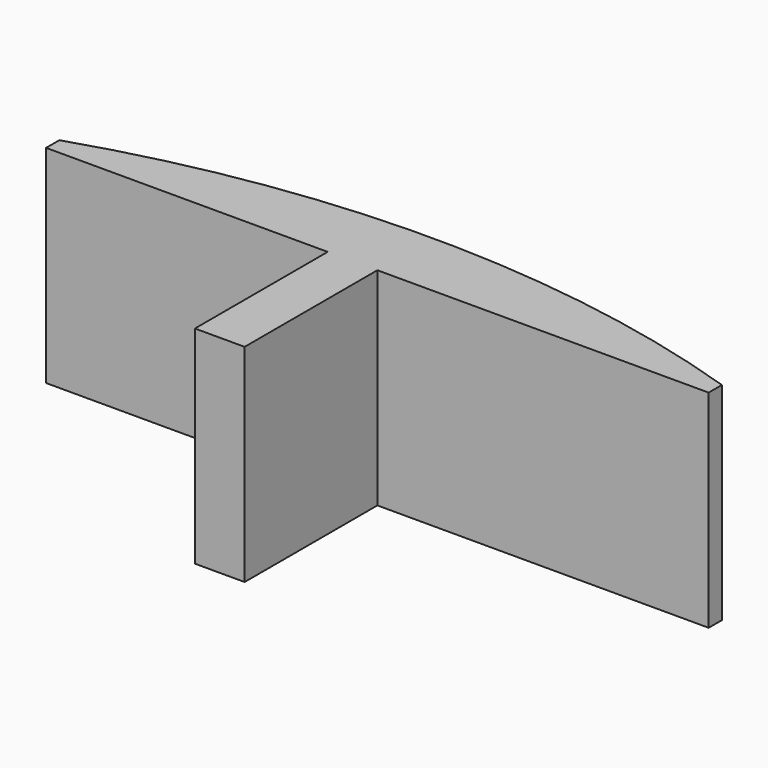
from build123d import *

# Parameters (mm, degrees)
F1_DEPTH = 25


with BuildPart() as f1:
    # F0 (on Top) → F1 (new body)
    with BuildSketch(Plane.XY):
        with BuildLine():
            Line((40, -2), (40, 0))
            ThreePointArc((40, 0), (0, 6.372808), (-40, 0))
            Line((-40, 0), (-40, -2))
            Line((-40, -2), (-6, -2))
            Line((-6, -2), (-6, -22.035335))
            Line((-6, -22.035335), (0, -22.035335))
            Line((0, -22.035335), (0, -2))
            Line((0, -2), (40, -2))
        make_face()
    extrude(amount=F1_DEPTH)


solid = f1.part
